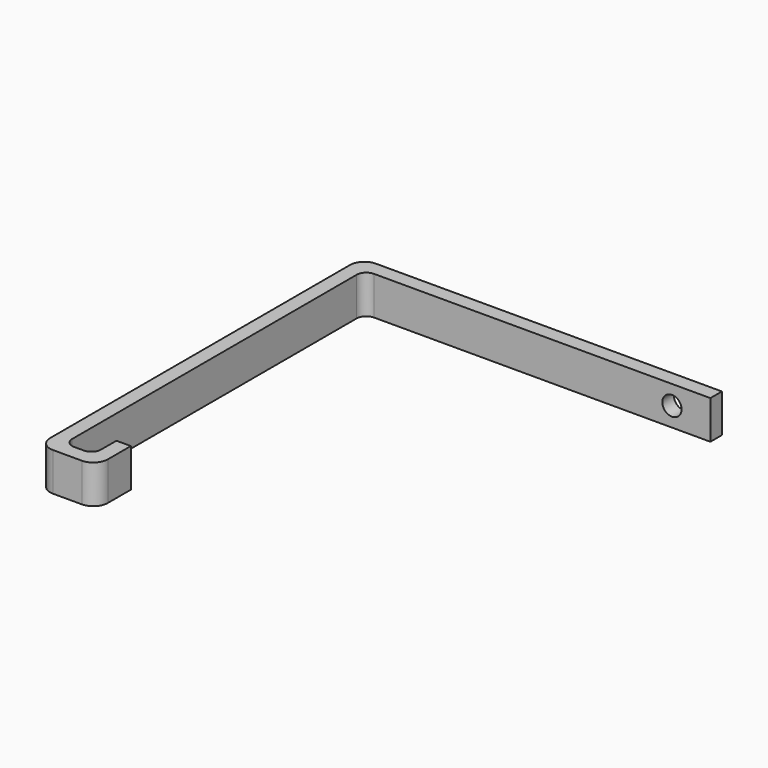
from build123d import *

# Parameters (mm, degrees)
F0_W     = 3
F0_H     = 6
F1_DEPTH = 8
F3_D     = 4
F3_DEPTH = 10
F4_R     = 3
F5_R     = 2


with BuildPart() as f1:
    # F0 (on Top) → F1 (new body)
    with BuildSketch(Plane.XY):
        Polygon((0, -78), (0, 0), (72, 0), (72, 3), (-3, 3), (-3, -81), (9, -81), (9, -78), (6, -78), align=None)
        with Locations((7.5, -75)):
            Rectangle(F0_W, F0_H)
    extrude(amount=F1_DEPTH)

    # F3
    with Locations(Plane(origin=(0, 3, 0), x_dir=(-1, 0, 0), z_dir=(0, 1, 0))):
        with Locations((-64, 4)):
            Hole(F3_D / 2, depth=F3_DEPTH)

    # F4
    f4_edges = [f1.edges().sort_by_distance(p)[0] for p in [
        (-3, -81, 4),
        (-3, 3, 4),
        (9, -81, 4),
    ]]
    fillet(f4_edges, radius=F4_R)

    # F5
    f5_edges = [f1.edges().sort_by_distance(p)[0] for p in [
        (6, -78, 4),
        (0, -78, 4),
        (0, 0, 4),
    ]]
    fillet(f5_edges, radius=F5_R)


solid = f1.part
